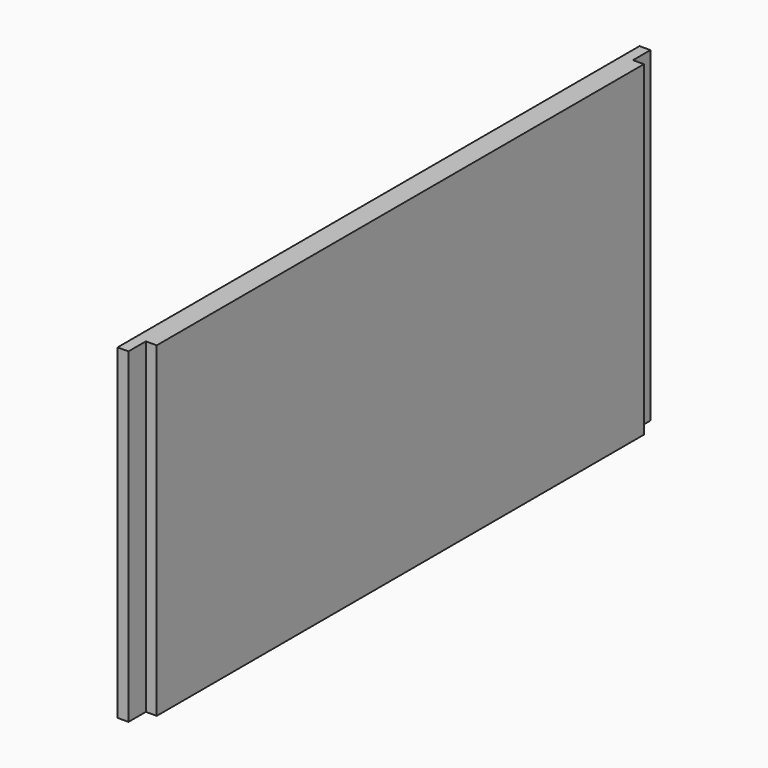
from build123d import *

# Parameters (mm, degrees)
F1_DEPTH = 150
F4_DEPTH = 150


with BuildPart() as f1:
    # F0 (on Top) → F1 (new body)
    with BuildSketch(Plane.XY):
        Polygon((0, 75), (-6, 75), (-6, -75), (0, -75), (0, -63), (6, -63), (6, 63), (0, 63), align=None)
    extrude(amount=F1_DEPTH)


with BuildPart() as f4:
    # F3 (on Top) → F4 (new body)
    with BuildSketch(Plane.XY):
        Polygon((0, 140), (0, 150), (-5, 150), (-5, -150), (0, -150), (0, -140), (5, -140), (5, 140), align=None)
    extrude(amount=F4_DEPTH)


solid = f4.part
